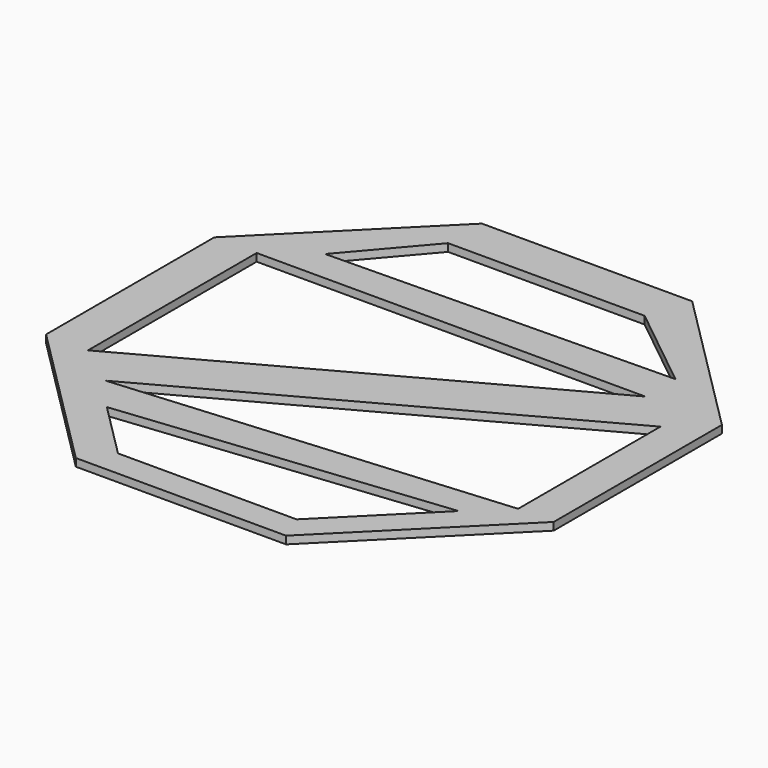
from build123d import *

# Parameters (mm, degrees)
F1_DEPTH = 0.5
F3_DEPTH = 1


with BuildPart() as f1:
    # F0 (on Top) → F1 (new body)
    with BuildSketch(Plane.XY):
        Polygon((-16.5, 6.834524), (-16.5, -6.834524), (-6.834524, -16.5), (6.834524, -16.5), (16.5, -6.834524), (16.5, 6.834524), (6.834524, 16.5), (-6.834524, 16.5), align=None)
    extrude(amount=F1_DEPTH)

    # F2 (on face) → F3 (cut)
    with BuildSketch(Plane.XY.offset(0.5)):
        Polygon((11.516908, 6.834524), (-13.746019, 6.834524), (-13.746019, -6.871023), align=None)
        Polygon((-6.834524, 13.746861), (-10.959666, 8.918076), (11.516908, 9.286142), (5.944203, 13.746861), align=None)
        Polygon((14.187291, 4.727939), (-10.959666, -8.914692), (14.187291, -6.834524), align=None)
        Polygon((11.981887, -8.914692), (-9.102098, -11.144061), (-5.479538, -14.76662), (6.12996, -14.76662), align=None)
    extrude(amount=-F3_DEPTH, mode=Mode.SUBTRACT)


solid = f1.part
